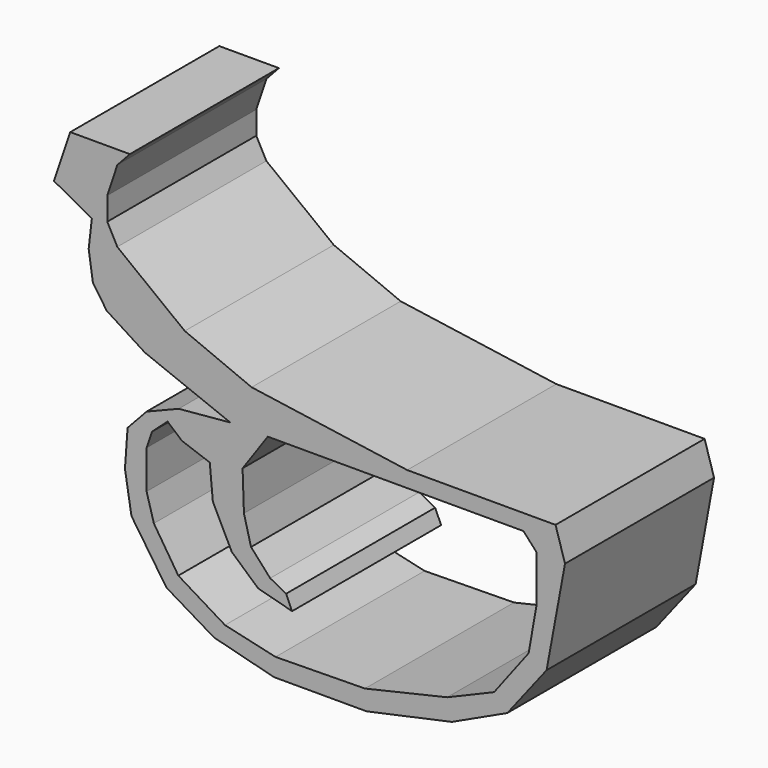
from build123d import *

# Parameters (mm, degrees)
F1_DEPTH = 12.5


with BuildPart() as f1:
    # F0 (on Front) → F1 (new body, symmetric)
    with BuildSketch(Plane.XZ):
        Polygon((-52.275904, -2.303776), (-56.58076, -4.034938), (-59.129985, -6.772994), (-59.483321, -11.718572), (-58.615414, -17.026151), (-53.908695, -23.969399), (-47.532922, -27.774831), (-39.488101, -29.844454), (-27.070367, -29.844454), (-15.620685, -27.374261), (-8.176722, -23.902636), (-2.902524, -17.126292), (-0.43233, -3.740512), (-1.700808, 0.432113), (-21.604338, 0.432113), (-42.484921, 3.422433), (-51.456425, 7.153944), (-60.507324, 14.140602), (-61.857025, 16.681206), (-61.857025, 19.777565), (-60.505413, 23.82762), (-58.821212, 25.652167), (-66.821156, 25.652167), (-69.010613, 19.168006), (-63.929948, 16.36101), (-64.350999, 12.655774), (-63.789598, 8.86633), (-61.936983, 6.143543), (-56.800178, 2.859358), (-45.349349, -1.669537), align=None)
        Polygon((-56.58076, -13.471695), (-56.58076, -8.311095), (-55.833608, -6.141283), (-53.763984, -4.288638), (-51.844578, -5.940998), (-48.100221, -7.287823), (-47.688644, -11.782673), (-45.15169, -16.889966), (-41.613301, -20.044469), (-37.056797, -21.262877), (-37.857941, -19.460302), (-39.994321, -18.325348), (-42.56466, -15.471273), (-43.516018, -11.799362), (-43.699614, -6.541855), (-40.31144, -1.70161), (-6.012463, -1.70161), (-4.259961, -3.621017), (-4.259961, -9.913336), (-5.311462, -15.905227), (-9.951422, -22.013951), (-16.243739, -24.667738), (-27.276158, -27.221385), (-39.276629, -27.388292), (-46.052973, -25.836074), (-52.32143, -22.025112), (-55.603315, -16.925327), align=None, mode=Mode.SUBTRACT)
        Polygon((-52.275904, -2.303776), (-56.58076, -4.034938), (-59.129985, -6.772994), (-59.483321, -11.718572), (-58.615414, -17.026151), (-53.908695, -23.969399), (-47.532922, -27.774831), (-39.488101, -29.844454), (-27.070367, -29.844454), (-15.620685, -27.374261), (-8.176722, -23.902636), (-2.902524, -17.126292), (-0.43233, -3.740512), (-1.700808, 0.432113), (-21.604338, 0.432113), (-42.484921, 3.422433), (-51.456425, 7.153944), (-60.507324, 14.140602), (-61.857025, 16.681206), (-61.857025, 19.777565), (-60.505413, 23.82762), (-58.821212, 25.652167), (-66.821156, 25.652167), (-69.010613, 19.168006), (-63.929948, 16.36101), (-64.350999, 12.655774), (-63.789598, 8.86633), (-61.936983, 6.143543), (-56.800178, 2.859358), (-45.349349, -1.669537), align=None)
        Polygon((-56.58076, -13.471695), (-56.58076, -8.311095), (-55.833608, -6.141283), (-53.763984, -4.288638), (-51.844578, -5.940998), (-48.100221, -7.287823), (-47.688644, -11.782673), (-45.15169, -16.889966), (-41.613301, -20.044469), (-37.056797, -21.262877), (-37.857941, -19.460302), (-39.994321, -18.325348), (-42.56466, -15.471273), (-43.516018, -11.799362), (-43.699614, -6.541855), (-40.31144, -1.70161), (-6.012463, -1.70161), (-4.259961, -3.621017), (-4.259961, -9.913336), (-5.311462, -15.905227), (-9.951422, -22.013951), (-16.243739, -24.667738), (-27.276158, -27.221385), (-39.276629, -27.388292), (-46.052973, -25.836074), (-52.32143, -22.025112), (-55.603315, -16.925327), align=None, mode=Mode.SUBTRACT)
    extrude(amount=F1_DEPTH, both=True)


solid = f1.part
